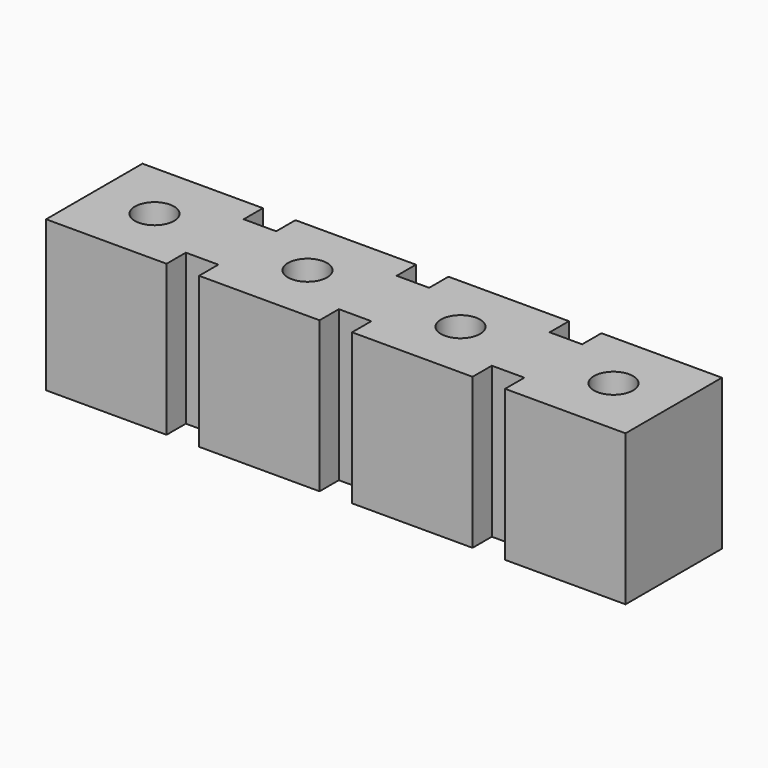
from build123d import *

# Parameters (mm, degrees)
F0_R     = 0.325
F0_W     = 0.54
F0_H     = 1.2
F1_DEPTH = 2.5


with BuildPart() as f1:
    # F0 (on Top) → F1 (new body)
    with BuildSketch(Plane.XY):
        Polygon((-71.271986, 0), (-69.271986, 0), (-69.271986, 0.4), (-69.271986, 1.6), (-69.271986, 2), (-71.271986, 2), align=None)
        with Locations((-70.271986, 1)):
            Circle(F0_R, mode=Mode.SUBTRACT)
        with Locations((-69.001986, 1)):
            Rectangle(F0_W, F0_H)
        Polygon((-68.731986, 1.6), (-68.731986, 0.4), (-68.731986, 0), (-66.731986, 0), (-66.731986, 0.4), (-66.731986, 1.6), (-66.731986, 2), (-68.731986, 2), align=None)
        with Locations((-67.731986, 1)):
            Circle(F0_R, mode=Mode.SUBTRACT)
        with Locations((-66.461986, 1)):
            Rectangle(F0_W, F0_H)
        Polygon((-66.191986, 1.6), (-66.191986, 0.4), (-66.191986, 0), (-64.191986, 0), (-64.191986, 0.4), (-64.191986, 1.6), (-64.191986, 2), (-66.191986, 2), align=None)
        with Locations((-65.191986, 1)):
            Circle(F0_R, mode=Mode.SUBTRACT)
        with Locations((-63.921986, 1)):
            Rectangle(F0_W, F0_H)
        Polygon((-63.651986, 1.6), (-63.651986, 0.4), (-63.651986, 0), (-61.651986, 0), (-61.651986, 0.4), (-61.651986, 1.6), (-61.651986, 2), (-63.651986, 2), align=None)
        with Locations((-62.651986, 1)):
            Circle(F0_R, mode=Mode.SUBTRACT)
    extrude(amount=F1_DEPTH)


solid = f1.part
